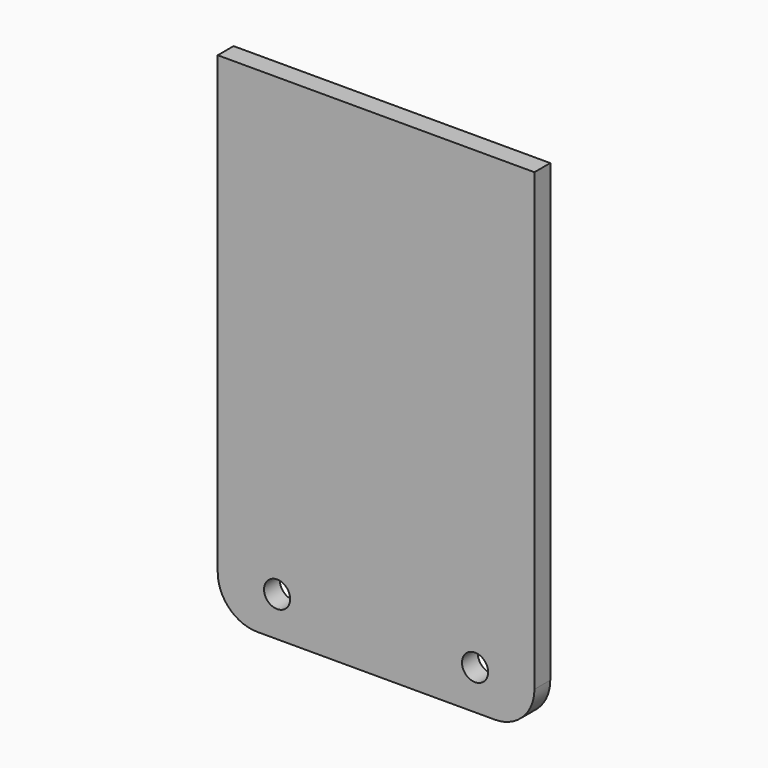
from build123d import *

# Parameters (mm, degrees)
F0_W     = 80
F0_H     = 125
F1_DEPTH = 5
F3_D     = 6.6
F4_R     = 10


with BuildPart() as f1:
    # F0 (on Front) → F1 (new body)
    with BuildSketch(Plane.XZ):
        Rectangle(F0_W, F0_H)
    extrude(amount=F1_DEPTH)

    # F3 (through all)
    with Locations(Plane.XZ.offset(5)):
        with Locations((-25, -52.5), (25, -52.5)):
            Hole(F3_D / 2)

    # F4
    f4_edges = [f1.edges().sort_by_distance(p)[0] for p in [
        (40, -2.5, -62.5),
        (-40, -2.5, -62.5),
    ]]
    fillet(f4_edges, radius=F4_R)


solid = f1.part
